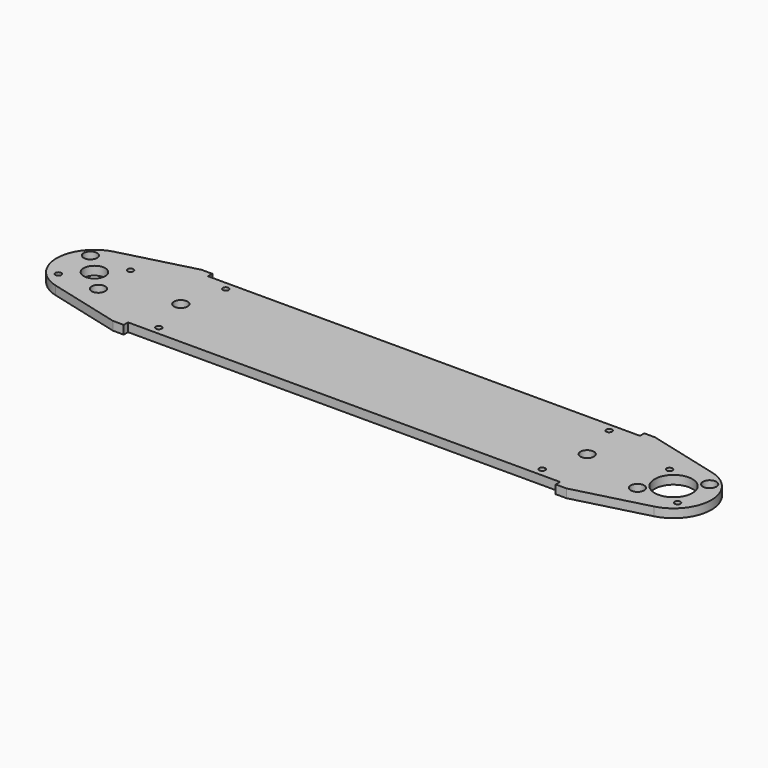
from build123d import *

# Parameters (mm, degrees)
F0_R     = 1.7272
F0_R_2   = 3.96875
F0_R_3   = 6.35
F0_R_4   = 11.1125
F1_DEPTH = 5.08


with BuildPart() as f1:
    # F0 (on Top) → F1 (new body)
    with BuildSketch(Plane.XY):
        with BuildLine():
            Line((-303.612563, 32.54375), (-346.10942, 21.512003))
            ThreePointArc((-346.10942, 21.512003), (-362.750125, 0), (-346.10942, -21.512003))
            Line((-346.10942, -21.512003), (-303.612563, -32.54375))
            Line((-303.612563, -32.54375), (-297.262563, -32.54375))
            Line((-297.262563, -32.54375), (-297.262563, -29.36875))
            Line((-297.262563, -29.36875), (-43.262563, -29.36875))
            Line((-43.262563, -29.36875), (-43.262563, -32.54375))
            Line((-43.262563, -32.54375), (-36.912563, -32.54375))
            Line((-36.912563, -32.54375), (5.584295, -21.512003))
            ThreePointArc((5.584295, -21.512003), (22.225, 0), (5.584295, 21.512003))
            Line((5.584295, 21.512003), (-36.912563, 32.54375))
            Line((-36.912563, 32.54375), (-43.262563, 32.54375))
            Line((-43.262563, 32.54375), (-43.262563, 29.36875))
            Line((-43.262563, 29.36875), (-297.262563, 29.36875))
            Line((-297.262563, 29.36875), (-297.262563, 32.54375))
            Line((-297.262563, 32.54375), (-303.612563, 32.54375))
        make_face()
        with Locations((-282.975063, -24.60625)):
            Circle(F0_R, mode=Mode.SUBTRACT)
        with Locations((-352.311712, -11.786586)):
            Circle(F0_R, mode=Mode.SUBTRACT)
        with Locations((-328.738539, -11.786586)):
            Circle(F0_R_2, mode=Mode.SUBTRACT)
        with Locations((-57.550063, -24.60625)):
            Circle(F0_R, mode=Mode.SUBTRACT)
        with Locations((-11.786586, -11.786586)):
            Circle(F0_R_2, mode=Mode.SUBTRACT)
        with Locations((11.786586, -11.786586)):
            Circle(F0_R, mode=Mode.SUBTRACT)
        with Locations((-340.525125, 0)):
            Circle(F0_R_3, mode=Mode.SUBTRACT)
        with Locations((-289.725125, 0)):
            Circle(F0_R_2, mode=Mode.SUBTRACT)
        with Locations((-352.311712, 11.786586)):
            Circle(F0_R_2, mode=Mode.SUBTRACT)
        with Locations((-328.738539, 11.786586)):
            Circle(F0_R, mode=Mode.SUBTRACT)
        with Locations((-282.975063, 24.60625)):
            Circle(F0_R, mode=Mode.SUBTRACT)
        with Locations((-50.8, 0)):
            Circle(F0_R_2, mode=Mode.SUBTRACT)
        Circle(F0_R_4, mode=Mode.SUBTRACT)
        with Locations((-11.786586, 11.786586)):
            Circle(F0_R, mode=Mode.SUBTRACT)
        with Locations((11.786586, 11.786586)):
            Circle(F0_R_2, mode=Mode.SUBTRACT)
        with Locations((-57.550063, 24.60625)):
            Circle(F0_R, mode=Mode.SUBTRACT)
    extrude(amount=F1_DEPTH)


solid = f1.part
